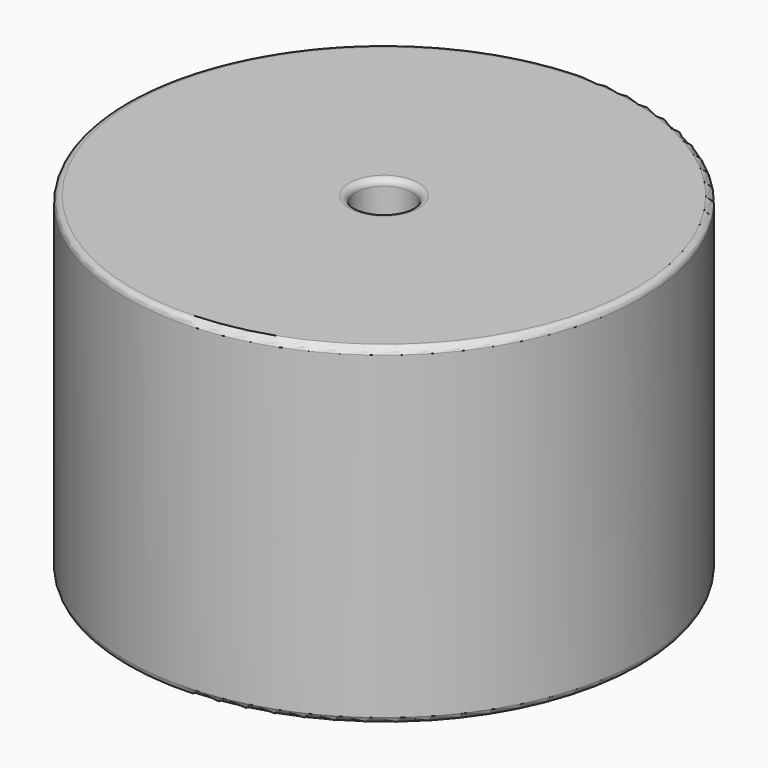
from build123d import *

# Parameters (mm, degrees)
SKETCH001_R       = 0.35
PAD001_DEPTH      = 13.08
PAD001_DEPTH_BACK = 3.5
SKETCH_R          = 20.32
SKETCH_R_2        = 2.225
PAD_DEPTH         = 26.16
FILLET_R          = 0.5


with BuildPart() as pad001:
    # Sketch001 → Pad001 (new body, two sides)
    with BuildSketch(Plane.XY.offset(0.5)) as pad001_sk:
        Circle(SKETCH001_R)
        with Locations((27.18, 0)):
            Circle(SKETCH001_R)
    extrude(amount=PAD001_DEPTH)
    extrude(pad001_sk.sketch, amount=-PAD001_DEPTH_BACK)


with BuildPart() as fillet_body:
    # Sketch → Pad (new body)
    with BuildSketch(Plane.XY.offset(0.1)):
        with Locations((13.59, 0)):
            Circle(SKETCH_R)
        with Locations((13.59, 0)):
            Circle(SKETCH_R_2, mode=Mode.SUBTRACT)
    extrude(amount=PAD_DEPTH)

    # Fillet
    fillet_edges = [fillet_body.edges().sort_by_distance(p)[0] for p in [
        (11.365, 0, 26.26),
        (-6.73, 0, 26.26),
        (-6.73, 0, 0.1),
    ]]
    fillet(fillet_edges, radius=FILLET_R)


solid = Compound([pad001.part, fillet_body.part])
